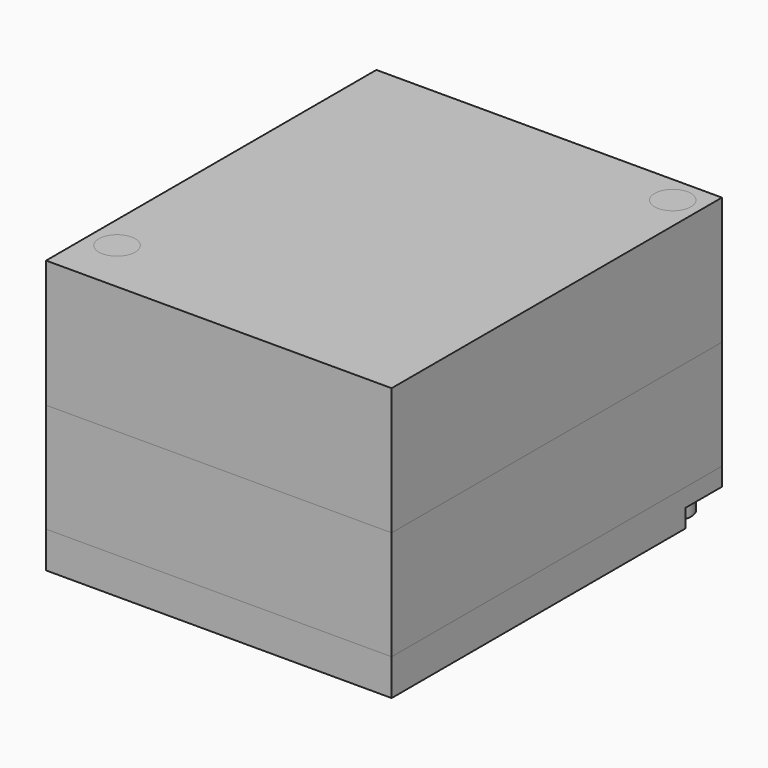
from build123d import *

# Parameters (mm, degrees)
SKETCH_W     = 9.5
SKETCH_H     = 11.35
PAD_DEPTH    = 1
POCKET_DEPTH = 0.5
SKETCH001_W  = 9.5
SKETCH001_H  = 11.35
PAD001_DEPTH = 3
SKETCH002_W  = 9.5
SKETCH002_H  = 11.35
PAD002_DEPTH = 3.5
SKETCH003_R  = 0.5
PAD003_DEPTH = 7.5
SKETCH004_R  = 0.5
PAD004_DEPTH = 7.5


with BuildPart() as bodybottom:
    # Sketch (on DatumPlane) → Pad (new body)
    with BuildSketch(Plane.XY):
        with Locations((0, -0.825)):
            Rectangle(SKETCH_W, SKETCH_H)
    extrude(amount=PAD_DEPTH)

    # Sketch005 (on DatumPlane) → Pocket (cut)
    with BuildSketch(Plane.XY):
        with BuildLine():
            Line((4, 3.6), (4.75, 3.6))
            Line((4.75, 3.6), (4.75, 4.85))
            Line((4.75, 4.85), (3.5, 4.85))
            Line((3.5, 4.85), (3.5, 4.1))
            ThreePointArc((3.5, 4.1), (3.646447, 3.746447), (4, 3.6))
        make_face()
    extrude(amount=POCKET_DEPTH, mode=Mode.SUBTRACT)


with BuildPart() as bodymiddle:
    # Sketch001 (on DatumPlane) → Pad001 (new body)
    with BuildSketch(Plane.XY.offset(1)):
        with Locations((0, -0.825)):
            Rectangle(SKETCH001_W, SKETCH001_H)
    extrude(amount=PAD001_DEPTH)


with BuildPart() as bodytop:
    # Sketch002 (on DatumPlane) → Pad002 (new body)
    with BuildSketch(Plane.XY.offset(4)):
        with Locations((0, -0.825)):
            Rectangle(SKETCH002_W, SKETCH002_H)
    extrude(amount=PAD002_DEPTH)


with BuildPart() as rivet1:
    # Sketch003 (on DatumPlane) → Pad003 (new body)
    with BuildSketch(Plane.XY):
        with Locations((4, 4.1)):
            Circle(SKETCH003_R)
    extrude(amount=PAD003_DEPTH)


with BuildPart() as rivet2:
    # Sketch004 (on DatumPlane) → Pad004 (new body)
    with BuildSketch(Plane.XY):
        with Locations((-4, -5)):
            Circle(SKETCH004_R)
    extrude(amount=PAD004_DEPTH)


solid = Compound([bodybottom.part, bodymiddle.part, bodytop.part, rivet1.part, rivet2.part])
